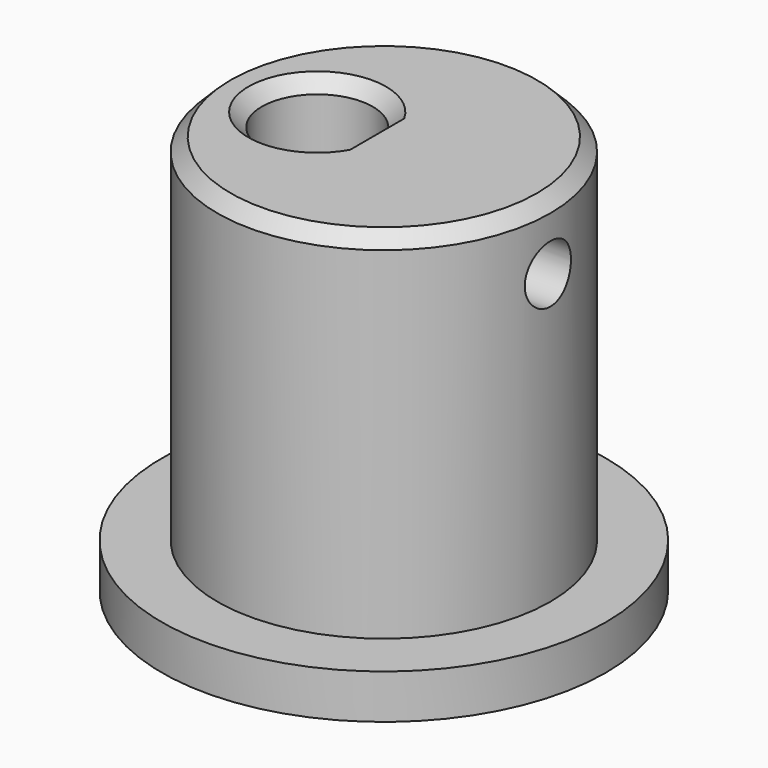
from build123d import *

# Parameters (mm, degrees)
SKETCH_R        = 7.5
PAD_DEPTH       = 16
SKETCH001_R     = 10
PAD001_DEPTH    = 2
SKETCH002_R     = 1.3
POCKET_DEPTH    = 13.001
POCKET001_DEPTH = 18.001
CHAMFER_SIZE    = 0.6


with BuildPart() as part:
    # Sketch → Pad (new body)
    with BuildSketch(Plane.XY):
        with Locations((3, 0)):
            Circle(SKETCH_R)
    extrude(amount=PAD_DEPTH)

    # Sketch001 (on Face2 of Pad) → Pad001 (join)
    with BuildSketch(Plane(origin=(0, 0, 0), x_dir=(1, 0, 0), z_dir=(0, 0, -1))):
        with Locations((3, 0)):
            Circle(SKETCH001_R)
    extrude(amount=PAD001_DEPTH)

    # Sketch002 → Pocket (cut, through all)
    with BuildSketch(Plane.YZ):
        with Locations((0, 13)):
            Circle(SKETCH002_R)
    extrude(amount=POCKET_DEPTH, mode=Mode.SUBTRACT)

    # Sketch003 (on Face6 of Pocket) → Pocket001 (cut, through all)
    with BuildSketch(Plane.XY.offset(16)):
        with BuildLine():
            ThreePointArc((2.1, 1.356466), (-2.5, 0), (2.1, -1.356466))
            Line((2.1, -1.356466), (2.1, 1.356466))
        make_face()
    extrude(amount=-POCKET001_DEPTH, mode=Mode.SUBTRACT)

    # Chamfer
    chamfer_edges = [part.edges().sort_by_distance(p)[0] for p in [
        (-4.5, 0, 16),
        (2.1, 0, 16),
        (-2.5, 0, 16),
        (-2.5, 0, -2),
        (2.1, 0, -2),
    ]]
    chamfer(chamfer_edges, length=CHAMFER_SIZE)


solid = part.part
